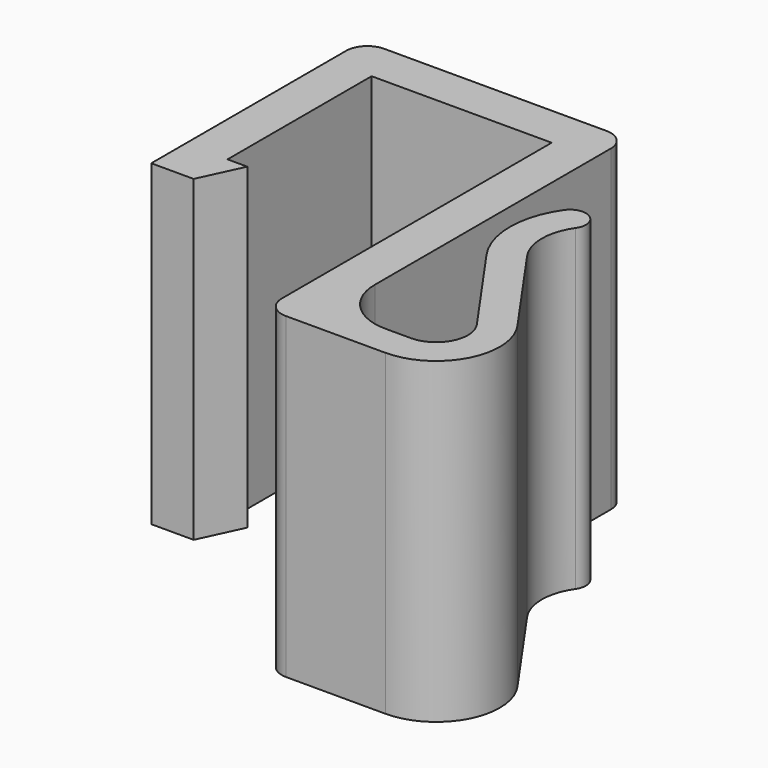
from build123d import *

# Parameters (mm, degrees)
F1_DEPTH = 38.1


with BuildPart() as f1:
    # F0 (on Top) → F1 (new body)
    with BuildSketch(Plane.XY):
        with BuildLine():
            Line((2.368843, 0), (0, 0))
            Line((0, 0), (0, 21.59))
            Line((0, 21.59), (21.59, 21.59))
            Line((21.59, 21.59), (21.59, -18.855018))
            ThreePointArc((21.59, -18.855018), (22.333949, -20.651069), (24.13, -21.395018))
            Line((24.13, -21.395018), (36.040729, -21.395018))
            ThreePointArc((36.040729, -21.395018), (42.799752, -17.293542), (42.282668, -9.404365))
            Line((42.282668, -9.404365), (34.15109, 2.208732))
            ThreePointArc((34.15109, 2.208732), (33.002705, 5.850942), (34.15109, 9.493153))
            ThreePointArc((34.15109, 9.493153), (33.683268, 12.1463), (31.03012, 11.678479))
            ThreePointArc((31.03012, 11.678479), (29.192705, 5.850942), (31.03012, 0.023406))
            Line((31.03012, 0.023406), (39.161698, -11.589691))
            ThreePointArc((39.161698, -11.589691), (39.42024, -15.53428), (36.040729, -17.585018))
            Line((36.040729, -17.585018), (33.002705, -17.585018))
            ThreePointArc((33.002705, -17.585018), (28.512577, -15.725146), (26.652705, -11.235018))
            Line((26.652705, -11.235018), (26.652705, 24.13))
            ThreePointArc((26.652705, 24.13), (25.908756, 25.926051), (24.112705, 26.67))
            Line((24.112705, 26.67), (-2.54, 26.67))
            ThreePointArc((-2.54, 26.67), (-4.336051, 25.926051), (-5.08, 24.13))
            Line((-5.08, 24.13), (-5.08, 0))
            Line((-5.08, 0), (-5.08, -5.08))
            Line((-5.08, -5.08), (0, -5.08))
            Line((0, -5.08), (2.368843, 0))
        make_face()
    extrude(amount=F1_DEPTH)


solid = f1.part
